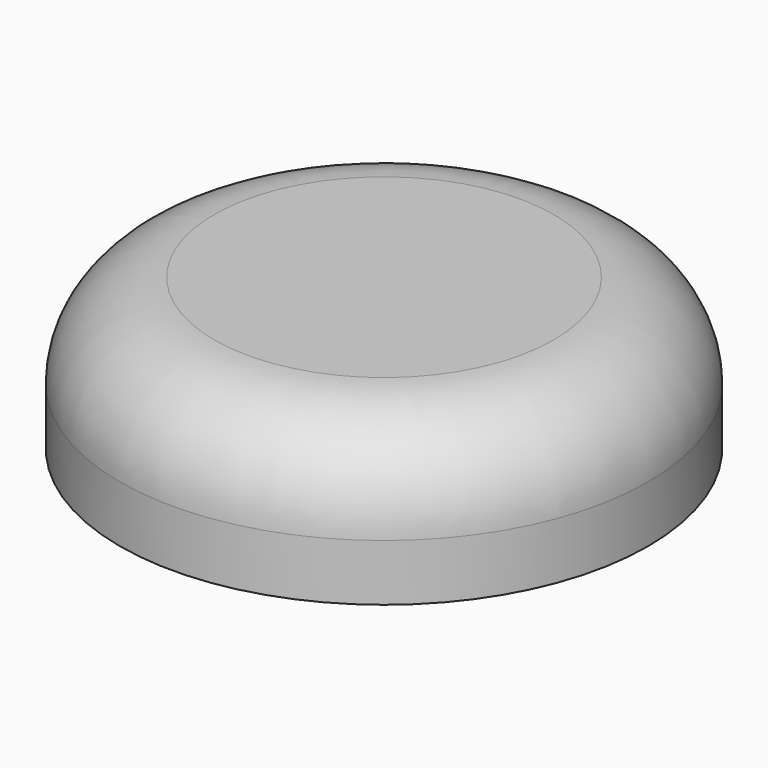
from build123d import *

# Parameters (mm, degrees)
SKETCH_R  = 7
PAD_DEPTH = 4
FILLET_R  = 2.5


with BuildPart() as part:
    # Sketch → Pad (new body)
    with BuildSketch(Plane.XY):
        Circle(SKETCH_R)
    extrude(amount=PAD_DEPTH)

    # Fillet
    fillet_edges = [part.edges().sort_by_distance(p)[0] for p in [
        (-7, 0, 4),
    ]]
    fillet(fillet_edges, radius=FILLET_R)


solid = part.part
